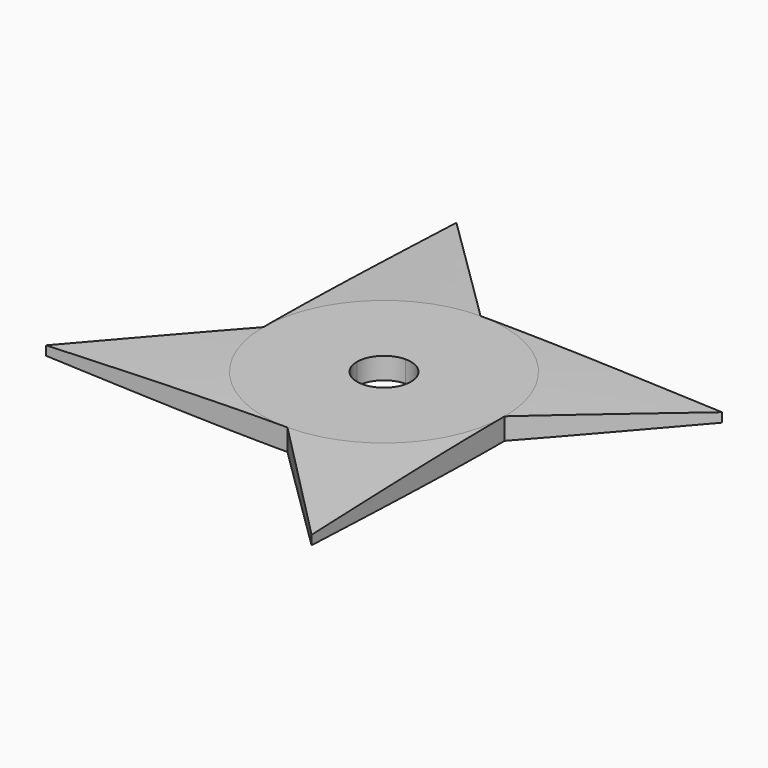
from build123d import *

# Parameters (mm, degrees)
F1_DEPTH = 2


with BuildPart() as f1:
    # F0 (on Top) → F1 (new body, symmetric)
    with BuildSketch(Plane.XY):
        with BuildLine():
            Line((0, 22.36068), (0, 5))
            ThreePointArc((0, 5), (3.535534, 3.535534), (5, 0))
            Line((5, 0), (22.36068, 0))
            Line((22.36068, 0), (44.72136, 22.36068))
            Line((44.72136, 22.36068), (22.36068, 22.36068))
            Line((22.36068, 22.36068), (0, 22.36068))
        make_face()
        with BuildLine():
            Line((-22.36068, 0), (-5, 0))
            ThreePointArc((-5, 0), (-3.535534, 3.535534), (0, 5))
            Line((0, 5), (0, 22.36068))
            Line((0, 22.36068), (-22.36068, 44.72136))
            Line((-22.36068, 44.72136), (-22.36068, 22.36068))
            Line((-22.36068, 22.36068), (-22.36068, 0))
        make_face()
        with BuildLine():
            ThreePointArc((0, -5), (-3.535534, -3.535534), (-5, 0))
            Line((-5, 0), (-22.36068, 0))
            Line((-22.36068, 0), (-44.72136, -22.36068))
            Line((-44.72136, -22.36068), (-22.36068, -22.36068))
            Line((-22.36068, -22.36068), (0, -22.36068))
            Line((0, -22.36068), (0, -5))
        make_face()
        with BuildLine():
            Line((22.36068, 0), (5, 0))
            ThreePointArc((5, 0), (3.535534, -3.535534), (0, -5))
            Line((0, -5), (0, -22.36068))
            Line((0, -22.36068), (22.36068, -44.72136))
            Line((22.36068, -44.72136), (22.36068, -22.36068))
            Line((22.36068, -22.36068), (22.36068, 0))
        make_face()
    extrude(amount=F1_DEPTH, both=True)

    # F2 (on Right) → F3 (revolve, cut)
    with BuildSketch(Plane.YZ):
        Polygon((-70.62068, 0), (-22.36068, 2), (-70.62068, 2), align=None)
        Polygon((-70.62068, -2), (-22.36068, -2), (-70.62068, 0), align=None)
    revolve(axis=Axis((0, 0, 2), (0, 0, -1)), mode=Mode.SUBTRACT)


solid = f1.part
